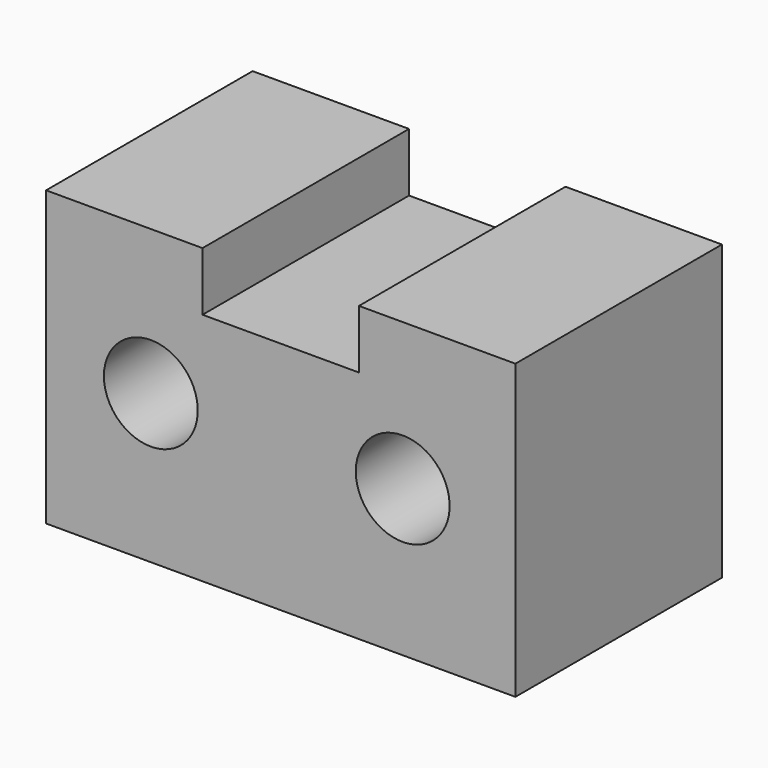
from build123d import *

# Parameters (mm, degrees)
F1_DEPTH = 22
F3_D     = 8
F5_D     = 8


with BuildPart() as f1:
    # F0 (on Front) → F1 (new body)
    with BuildSketch(Plane.XZ):
        Polygon((0, 25), (0, 0), (40, 0), (40, 25), (26.6667, 25), (26.6667, 20), (13.3337, 20), (13.3337, 25), align=None)
    extrude(amount=F1_DEPTH)

    # F3 (through all)
    with Locations(Plane.XZ.offset(22)):
        with Locations((8.928183, 12.672609)):
            Hole(F3_D / 2)

    # F5 (through all)
    with Locations(Plane.XZ.offset(22)):
        with Locations((30.394303, 12.5)):
            Hole(F5_D / 2)


solid = f1.part
